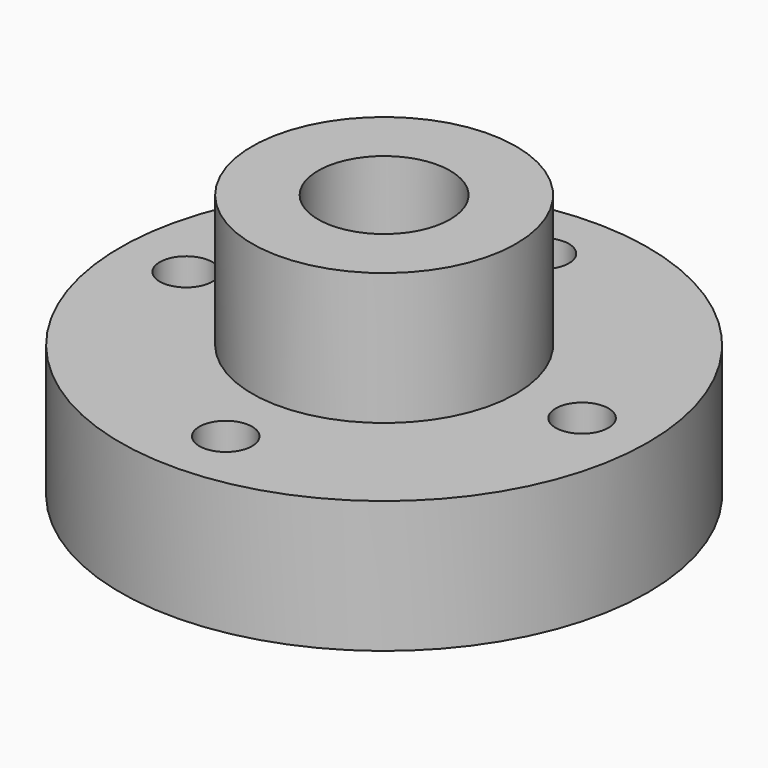
from build123d import *

# Parameters (mm, degrees)
F0_R     = 25.4
F1_DEPTH = 12.7
F2_R     = 12.7
F3_DEPTH = 25.4
F4_R     = 2.54
F4_R_2   = 6.35
F5_DEPTH = 25.4


with BuildPart() as f1:
    # F0 (on Top) → F1 (new body)
    with BuildSketch(Plane.XY):
        Circle(F0_R)
    extrude(amount=F1_DEPTH)

    # F2 (on Top) → F3 (join)
    with BuildSketch(Plane.XY):
        Circle(F2_R)
    extrude(amount=F3_DEPTH)

    # F4 (on Top) → F5 (cut)
    with BuildSketch(Plane.XY):
        with Locations((0, 19.05)):
            Circle(F4_R)
        with Locations((-19.05, 0)):
            Circle(F4_R)
        with Locations((0, -19.05)):
            Circle(F4_R)
        with Locations((19.05, 0)):
            Circle(F4_R)
        Circle(F4_R_2)
    extrude(amount=F5_DEPTH, mode=Mode.SUBTRACT)


solid = f1.part
